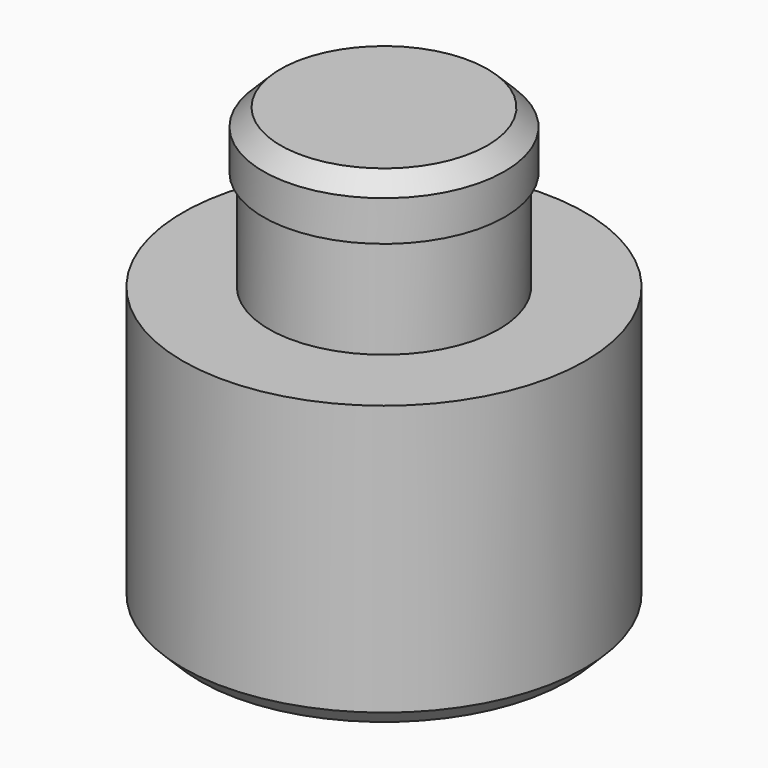
from build123d import *

# Parameters (mm, degrees)
F0_W    = 2
F0_H    = 1.75
F2_SIZE = 0.3


with BuildPart() as f1:
    # F0 (on Front) → F1 (revolve)
    with BuildSketch(Plane.XZ):
        Polygon((0, 5), (0, 0), (3.5, 0), (3.5, 5), (2, 5), align=None)
        with Locations((1, 5.875)):
            Rectangle(F0_W, F0_H)
        Polygon((0, 7.75), (0, 6.75), (2, 6.75), (2.1, 6.75), (2.1, 7.75), align=None)
    revolve(axis=Axis((0, 0, 2.5), (0, 0, 1)))

    # F2
    f2_edges = [f1.edges().sort_by_distance(p)[0] for p in [
        (-2.1, 0, 7.75),
        (-3.5, 0, 0),
    ]]
    chamfer(f2_edges, length=F2_SIZE)


solid = f1.part
